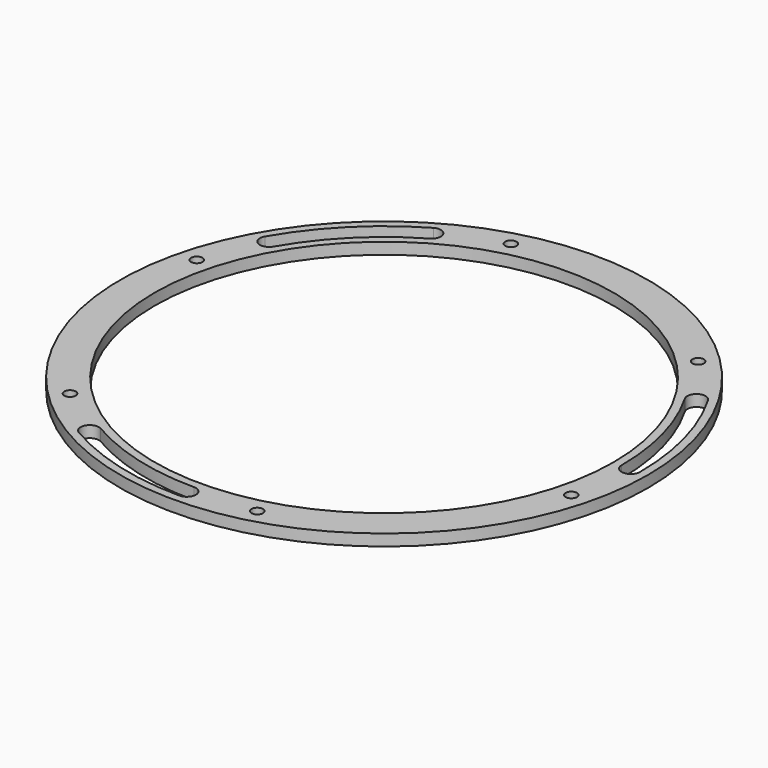
from build123d import *

# Parameters (mm, degrees)
F0_R     = 115
F0_R_2   = 2.5
F0_R_3   = 100
F1_DEPTH = 5


with BuildPart() as f1:
    # F0 (on Top) → F1 (new body)
    with BuildSketch(Plane.XY):
        Circle(F0_R)
        with Locations((-76.013979, -76.013979)):
            Circle(F0_R_2, mode=Mode.SUBTRACT)
        with BuildLine():
            ThreePointArc((0, -111.5), (-28.858324, -107.70073), (-55.75, -96.561833))
            ThreePointArc((-55.75, -96.561833), (-57.214102, -91.097731), (-51.75, -89.633629))
            ThreePointArc((-51.75, -89.633629), (-26.787771, -99.973323), (0, -103.5))
            ThreePointArc((0, -103.5), (4, -107.5), (0, -111.5))
        make_face(mode=Mode.SUBTRACT)
        with Locations((27.823047, -103.837026)):
            Circle(F0_R_2, mode=Mode.SUBTRACT)
        with Locations((103.837026, -27.823047)):
            Circle(F0_R_2, mode=Mode.SUBTRACT)
        with Locations((-103.837026, 27.823047)):
            Circle(F0_R_2, mode=Mode.SUBTRACT)
        with BuildLine():
            ThreePointArc((-96.561833, 55.75), (-78.842406, 78.842406), (-55.75, 96.561833))
            ThreePointArc((-55.75, 96.561833), (-50.285898, 95.097731), (-51.75, 89.633629))
            ThreePointArc((-51.75, 89.633629), (-73.185552, 73.185552), (-89.633629, 51.75))
            ThreePointArc((-89.633629, 51.75), (-95.097731, 50.285898), (-96.561833, 55.75))
        make_face(mode=Mode.SUBTRACT)
        with Locations((-27.823047, 103.837026)):
            Circle(F0_R_2, mode=Mode.SUBTRACT)
        Circle(F0_R_3, mode=Mode.SUBTRACT)
        with BuildLine():
            ThreePointArc((111.5, 0), (107.5, -4), (103.5, 0))
            ThreePointArc((103.5, 0), (99.973323, 26.787771), (89.633629, 51.75))
            ThreePointArc((89.633629, 51.75), (91.097731, 57.214102), (96.561833, 55.75))
            ThreePointArc((96.561833, 55.75), (107.70073, 28.858324), (111.5, 0))
        make_face(mode=Mode.SUBTRACT)
        with Locations((76.013979, 76.013979)):
            Circle(F0_R_2, mode=Mode.SUBTRACT)
    extrude(amount=F1_DEPTH)


solid = f1.part
